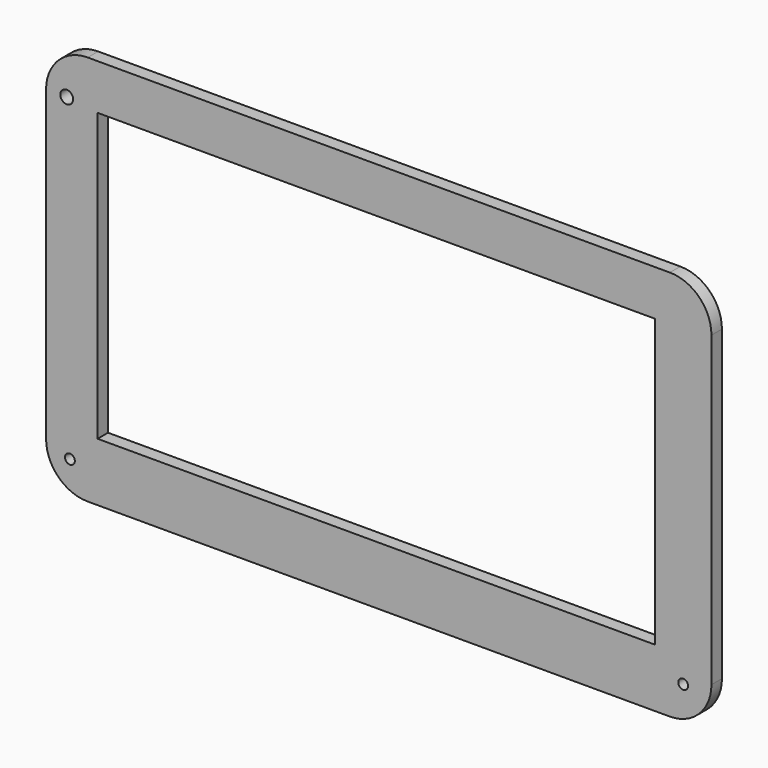
from build123d import *

# Parameters (mm, degrees)
F0_R     = 1.5
F0_W     = 170.18
F0_H     = 87.63
F0_R_2   = 1.961914
F1_DEPTH = 4


with BuildPart() as f1:
    # F0 (on Front) → F1 (new body)
    with BuildSketch(Plane.XZ):
        with BuildLine():
            Line((93.948381, 69.576574), (-83.851619, 69.576574))
            ThreePointArc((-83.851619, 69.576574), (-92.831876, 65.85683), (-96.551619, 56.876574))
            Line((-96.551619, 56.876574), (-96.551619, -37.103426))
            ThreePointArc((-96.551619, -37.103426), (-92.831876, -46.083682), (-83.851619, -49.803426))
            Line((-83.851619, -49.803426), (93.948381, -49.803426))
            ThreePointArc((93.948381, -49.803426), (102.928637, -46.083682), (106.648381, -37.103426))
            Line((106.648381, -37.103426), (106.648381, 56.876574))
            ThreePointArc((106.648381, 56.876574), (102.928637, 65.85683), (93.948381, 69.576574))
        make_face()
        with Locations((-89.268155, -40.17235)):
            Circle(F0_R, mode=Mode.SUBTRACT)
        with Locations((98.010667, -39.766103)):
            Circle(F0_R, mode=Mode.SUBTRACT)
        with Locations((4.260424, 11.867371)):
            Rectangle(F0_W, F0_H, mode=Mode.SUBTRACT)
        with Locations((-90.244457, 56.876574)):
            Circle(F0_R_2, mode=Mode.SUBTRACT)
    extrude(amount=F1_DEPTH)


solid = f1.part
